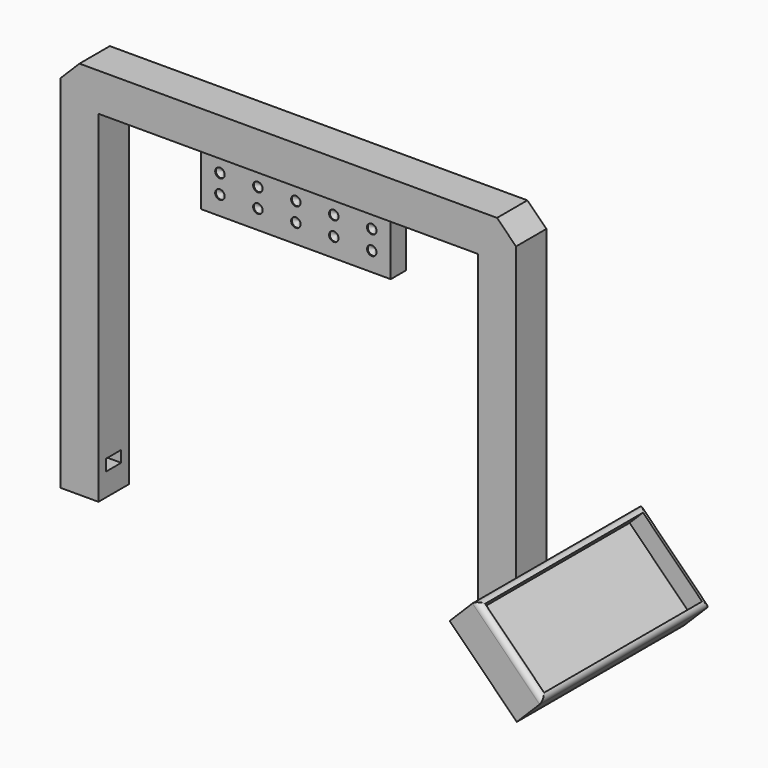
from build123d import *

# Parameters (mm, degrees)
SKETCH_W        = 240
SKETCH_H        = 20
PAD_DEPTH       = 200
SKETCH001_W     = 200
SKETCH001_H     = 180
POCKET_DEPTH    = 20.001
SKETCH002_W     = 100
SKETCH002_H     = 10
PAD001_DEPTH    = 30
SKETCH003_R     = 2.5
HOLE_DEPTH      = 0.497848
HOLE_TIPS_R     = 2.5
SKETCH004_W     = 10
SKETCH004_H     = 6
POCKET001_DEPTH = 7.5
SKETCH005_W     = 10
SKETCH005_H     = 5
POCKET002_DEPTH = 15
SKETCH006_W     = 20
SKETCH006_H     = 30
PAD002_DEPTH    = 30
CHAMFER_SIZE    = 24
SKETCH007_W     = 110
SKETCH007_H     = 50
PAD003_DEPTH    = 20
FILLET_R        = 3
FILLET_FACE8_W  = 104
FILLET_FACE8_H  = 44
POCKET003_DEPTH = 10
CHAMFER001_SIZE = 10


with BuildPart() as part:
    # Sketch → Pad (new body)
    with BuildSketch(Plane.XY):
        Rectangle(SKETCH_W, SKETCH_H)
    extrude(amount=PAD_DEPTH)

    # Sketch001 (on Face3 of Pad) → Pocket (cut, through all)
    with BuildSketch(Plane.XZ.offset(10)):
        with Locations((0, 90)):
            Rectangle(SKETCH001_W, SKETCH001_H)
    extrude(amount=-POCKET_DEPTH, mode=Mode.SUBTRACT)

    # Sketch002 (on Face4 of Pocket) → Pad001 (join)
    with BuildSketch(Plane(origin=(0, 0, 180), x_dir=(1, 0, 0), z_dir=(0, 0, -1))):
        Rectangle(SKETCH002_W, SKETCH002_H)
    extrude(amount=PAD001_DEPTH)

    # Sketch003 (on Face14 of Pad001) → Hole (cut)
    with BuildSketch(Plane.XZ.offset(5)):
        with Locations((-40, 170)):
            Circle(SKETCH003_R)
        with Locations((-20, 170)):
            Circle(SKETCH003_R)
        with Locations((0, 170)):
            Circle(SKETCH003_R)
        with Locations((20, 170)):
            Circle(SKETCH003_R)
        with Locations((40, 170)):
            Circle(SKETCH003_R)
        with Locations((-40, 160)):
            Circle(SKETCH003_R)
        with Locations((-20, 160)):
            Circle(SKETCH003_R)
        with Locations((0, 160)):
            Circle(SKETCH003_R)
        with Locations((20, 160)):
            Circle(SKETCH003_R)
        with Locations((40, 160)):
            Circle(SKETCH003_R)
    extrude(amount=-HOLE_DEPTH, mode=Mode.SUBTRACT)

    # Hole tips → Hole tip 1 section 0
    with BuildSketch(Plane.XZ.offset(4.502152), mode=Mode.PRIVATE) as hole_tip_1_s0:
        with Locations((-40, 170)):
            Circle(HOLE_TIPS_R)
    loft([hole_tip_1_s0.sketch, Vertex(-40, -3, 170)], mode=Mode.SUBTRACT)

    # Hole tips → Hole tip 2 section 0
    with BuildSketch(Plane.XZ.offset(4.502152), mode=Mode.PRIVATE) as hole_tip_2_s0:
        with Locations((-20, 170)):
            Circle(HOLE_TIPS_R)
    loft([hole_tip_2_s0.sketch, Vertex(-20, -3, 170)], mode=Mode.SUBTRACT)

    # Hole tips → Hole tip 3 section 0
    with BuildSketch(Plane.XZ.offset(4.502152), mode=Mode.PRIVATE) as hole_tip_3_s0:
        with Locations((0, 170)):
            Circle(HOLE_TIPS_R)
    loft([hole_tip_3_s0.sketch, Vertex(0, -3, 170)], mode=Mode.SUBTRACT)

    # Hole tips → Hole tip 4 section 0
    with BuildSketch(Plane.XZ.offset(4.502152), mode=Mode.PRIVATE) as hole_tip_4_s0:
        with Locations((20, 170)):
            Circle(HOLE_TIPS_R)
    loft([hole_tip_4_s0.sketch, Vertex(20, -3, 170)], mode=Mode.SUBTRACT)

    # Hole tips → Hole tip 5 section 0
    with BuildSketch(Plane.XZ.offset(4.502152), mode=Mode.PRIVATE) as hole_tip_5_s0:
        with Locations((40, 170)):
            Circle(HOLE_TIPS_R)
    loft([hole_tip_5_s0.sketch, Vertex(40, -3, 170)], mode=Mode.SUBTRACT)

    # Hole tips → Hole tip 6 section 0
    with BuildSketch(Plane.XZ.offset(4.502152), mode=Mode.PRIVATE) as hole_tip_6_s0:
        with Locations((-40, 160)):
            Circle(HOLE_TIPS_R)
    loft([hole_tip_6_s0.sketch, Vertex(-40, -3, 160)], mode=Mode.SUBTRACT)

    # Hole tips → Hole tip 7 section 0
    with BuildSketch(Plane.XZ.offset(4.502152), mode=Mode.PRIVATE) as hole_tip_7_s0:
        with Locations((-20, 160)):
            Circle(HOLE_TIPS_R)
    loft([hole_tip_7_s0.sketch, Vertex(-20, -3, 160)], mode=Mode.SUBTRACT)

    # Hole tips → Hole tip 8 section 0
    with BuildSketch(Plane.XZ.offset(4.502152), mode=Mode.PRIVATE) as hole_tip_8_s0:
        with Locations((0, 160)):
            Circle(HOLE_TIPS_R)
    loft([hole_tip_8_s0.sketch, Vertex(0, -3, 160)], mode=Mode.SUBTRACT)

    # Hole tips → Hole tip 9 section 0
    with BuildSketch(Plane.XZ.offset(4.502152), mode=Mode.PRIVATE) as hole_tip_9_s0:
        with Locations((20, 160)):
            Circle(HOLE_TIPS_R)
    loft([hole_tip_9_s0.sketch, Vertex(20, -3, 160)], mode=Mode.SUBTRACT)

    # Hole tips → Hole tip 10 section 0
    with BuildSketch(Plane.XZ.offset(4.502152), mode=Mode.PRIVATE) as hole_tip_10_s0:
        with Locations((40, 160)):
            Circle(HOLE_TIPS_R)
    loft([hole_tip_10_s0.sketch, Vertex(40, -3, 160)], mode=Mode.SUBTRACT)

    # Sketch004 (on Face3 of Hole) → Pocket001 (cut, symmetric)
    with BuildSketch(Plane.YZ.offset(-100)):
        with Locations((0, 15)):
            Rectangle(SKETCH004_W, SKETCH004_H)
    extrude(amount=POCKET001_DEPTH, both=True, mode=Mode.SUBTRACT)

    # Sketch005 (on Face5 of Pocket001) → Pocket002 (cut)
    with BuildSketch(Plane(origin=(100, 0, 0), x_dir=(0, -1, 0), z_dir=(-1, 0, 0))):
        with Locations((0, 14.5)):
            Rectangle(SKETCH005_W, SKETCH005_H)
    extrude(amount=-POCKET002_DEPTH, mode=Mode.SUBTRACT)

    # Sketch006 (on Face7 of Pocket002) → Pad002 (join)
    with BuildSketch(Plane.YZ.offset(120)):
        with Locations((0, 15)):
            Rectangle(SKETCH006_W, SKETCH006_H)
    extrude(amount=PAD002_DEPTH)

    # Chamfer
    chamfer_edges = [part.edges().sort_by_distance(p)[0] for p in [
        (150, 0, 30),
    ]]
    chamfer(chamfer_edges, length=CHAMFER_SIZE)

    # Sketch007 (on Face3 of Chamfer) → Pad003 (join)
    with BuildSketch(Plane(origin=(78, 0, 78), x_dir=(0, 1, 0), z_dir=(0.707107, 0, 0.707107))):
        with Locations((0, -85.882251)):
            Rectangle(SKETCH007_W, SKETCH007_H)
    extrude(amount=PAD003_DEPTH)

    # Fillet
    fillet_edges = [part.edges().sort_by_distance(p)[0] for p in [
        (152.870058, -55, 31.414214),
        (170.547727, 0, 13.736544),
        (135.192388, 0, 49.091883),
        (152.870058, 55, 31.414214),
    ]]
    fillet(fillet_edges, radius=FILLET_R)

    # Fillet Face8 → Pocket003 (cut)
    with BuildSketch(Plane(origin=(152.870058, 0, 31.414214), x_dir=(0, -1, 0), z_dir=(0.707107, 0, 0.707107))):
        Rectangle(FILLET_FACE8_W, FILLET_FACE8_H)
    extrude(amount=-POCKET003_DEPTH, mode=Mode.SUBTRACT)

    # Chamfer001
    chamfer001_edges = [part.edges().sort_by_distance(p)[0] for p in [
        (120, 0, 200),
        (-120, 0, 200),
    ]]
    chamfer(chamfer001_edges, length=CHAMFER001_SIZE)


solid = part.part
